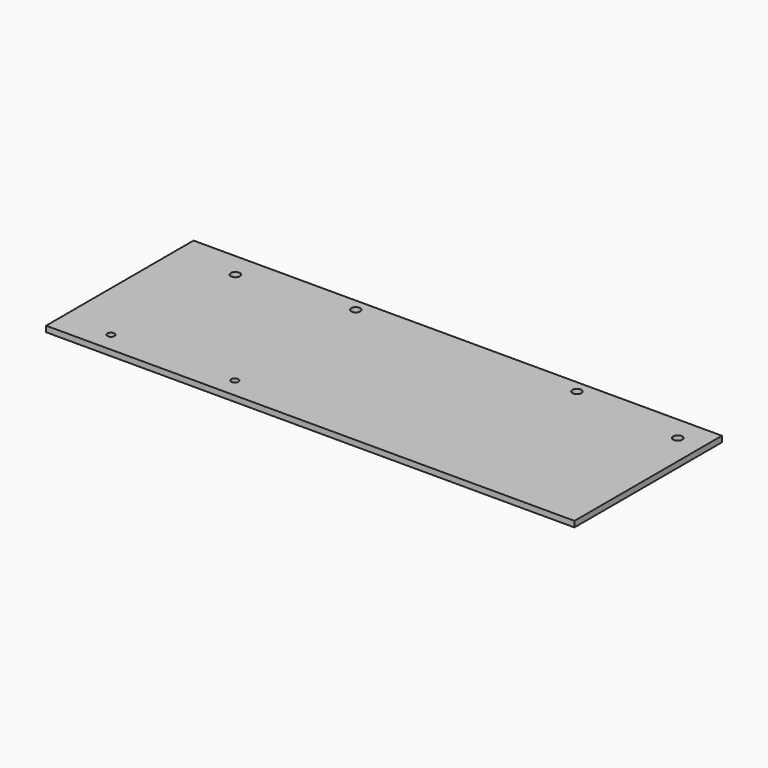
from build123d import *

# Parameters (mm, degrees)
F0_W     = 273.05
F0_H     = 95.25
F0_R     = 1.85
F0_R_2   = 2.35
F1_DEPTH = 3


with BuildPart() as f1:
    # F0 (on Top) → F1 (new body)
    with BuildSketch(Plane.XY):
        Rectangle(F0_W, F0_H)
        with Locations((-111.125, -37.465)):
            Circle(F0_R, mode=Mode.SUBTRACT)
        with Locations((-47.125, -37.465)):
            Circle(F0_R, mode=Mode.SUBTRACT)
        with Locations((-104.775, 34.925)):
            Circle(F0_R_2, mode=Mode.SUBTRACT)
        with Locations((-47.625, 41.275)):
            Circle(F0_R_2, mode=Mode.SUBTRACT)
        with Locations((66.675, 41.275)):
            Circle(F0_R_2, mode=Mode.SUBTRACT)
        with Locations((123.825, 34.925)):
            Circle(F0_R_2, mode=Mode.SUBTRACT)
    extrude(amount=F1_DEPTH)


solid = f1.part
